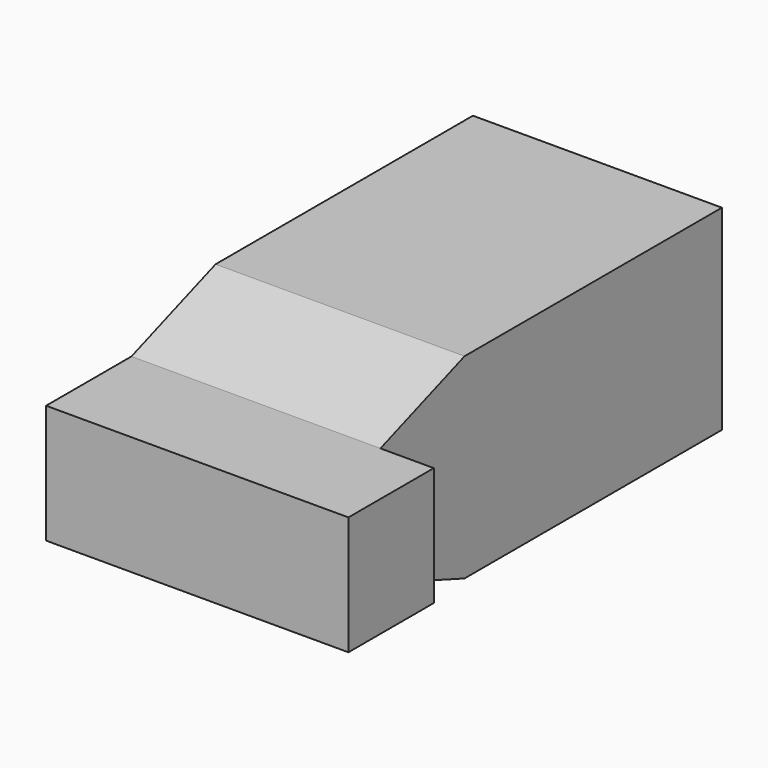
from build123d import *

# Parameters (mm, degrees)
F0_W     = 431.8
F0_H     = 279.4
F1_DEPTH = 762
F2_W     = 76.2
F2_H     = 279.4
F3_DEPTH = 609.6
F5_DEPTH = 431.801


with BuildPart() as f1:
    # F0 (on Front) → F1 (new body)
    with BuildSketch(Plane.XZ):
        Rectangle(F0_W, F0_H)
    extrude(amount=F1_DEPTH)

    # F2 (on face) → F3 (cut)
    with BuildSketch(Plane(origin=(0, 0, 0), x_dir=(-1, 0, 0), z_dir=(0, 1, 0))):
        with Locations((-177.8, 0)):
            Rectangle(F2_W, F2_H)
    extrude(amount=-F3_DEPTH, mode=Mode.SUBTRACT)

    # F4 (on face) → F5 (cut, through all)
    with BuildSketch(Plane.YZ.offset(215.9)):
        Polygon((-762, 139.7), (-762, 84.815077), (-609.6, 84.815077), (-457.2, 140.538976), align=None)
        Polygon((-762, -84.815077), (-762, -139.7), (-457.2, -140.538976), (-609.6, -84.815077), align=None)
    extrude(amount=-F5_DEPTH, mode=Mode.SUBTRACT)


solid = f1.part
